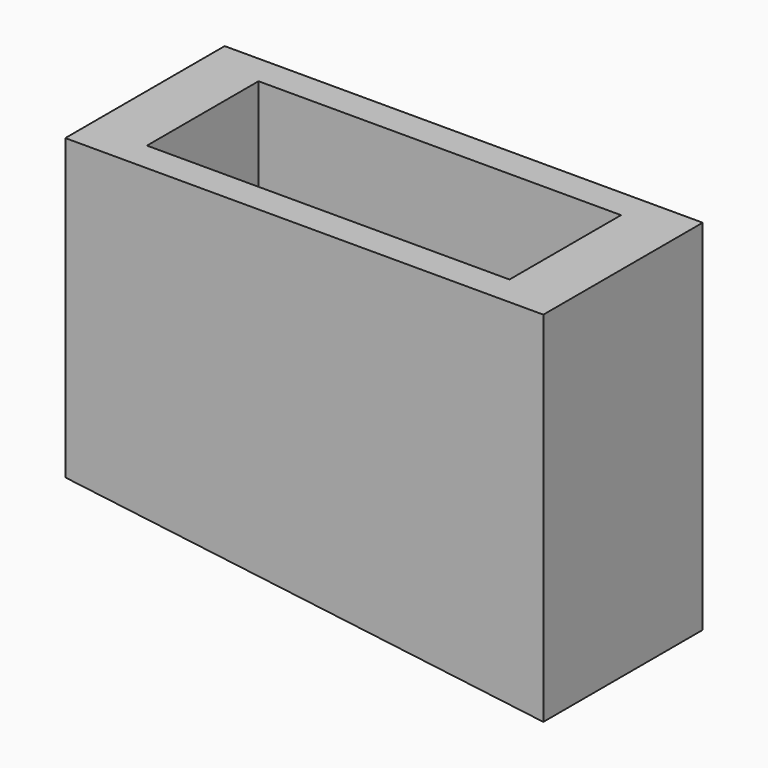
from build123d import *

# Parameters (mm, degrees)
F0_W     = 7
F0_H     = 3.5
F1_DEPTH = 2
F0_W_2   = 12
F0_H_2   = 5
F2_DEPTH = 7.5
F4_DEPTH = 2.5
F0_W_3   = 2.1
F5_DEPTH = 4


with BuildPart() as f1:
    # F0 (on Top) → F1 (new body)
    with BuildSketch(Plane.XY):
        with Locations((-1.05, 0)):
            Rectangle(F0_W, F0_H)
    extrude(amount=F1_DEPTH)

    # F0 (on Top) → F2 (join)
    with BuildSketch(Plane.XY):
        Rectangle(F0_W_2, F0_H_2)
        Polygon((2.45, 1.75), (4.55, 1.75), (4.55, -1.75), (2.45, -1.75), (-4.55, -1.75), (-4.55, 1.75), align=None, mode=Mode.SUBTRACT)
    extrude(amount=F2_DEPTH)

    # F3 (on Front) → F4 (join, symmetric)
    with BuildSketch(Plane.XZ):
        Polygon((6, 0), (-6, 0), (6, -1.5), align=None)
    extrude(amount=F4_DEPTH, both=True)

    # F0 (on Top) → F5 (join)
    with BuildSketch(Plane.XY):
        with Locations((3.5, 0)):
            Rectangle(F0_W_3, F0_H)
    extrude(amount=F5_DEPTH)


solid = f1.part
